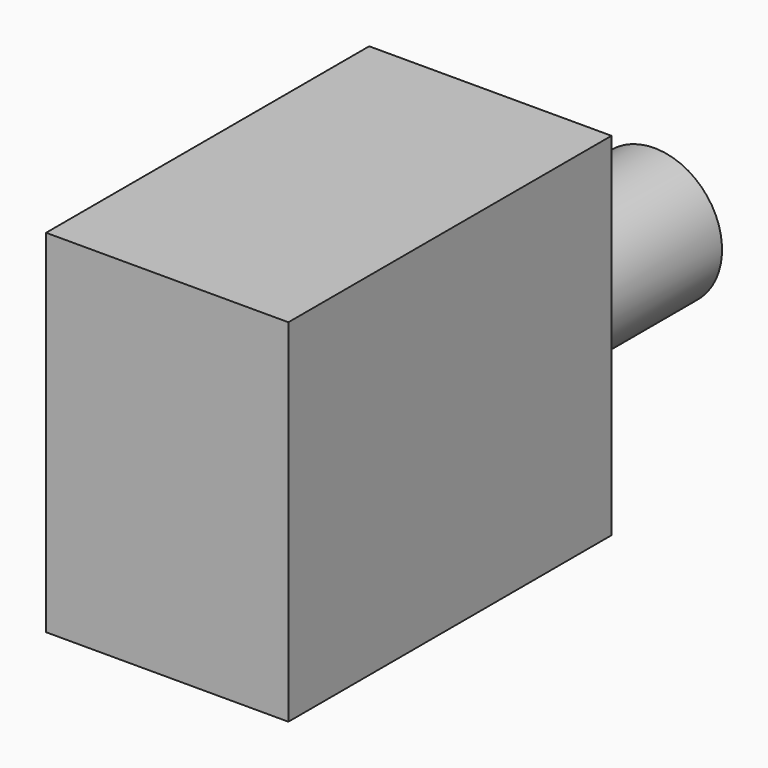
from build123d import *

# Parameters (mm, degrees)
F0_W     = 30
F0_H     = 50
F1_DEPTH = 1
F2_W     = 2
F2_H     = 2
F2_W_2   = 26
F2_H_2   = 46
F3_DEPTH = 40
F5_W     = 30
F5_H     = 50
F6_DEPTH = 2.54
F4_R     = 8.368495
F8_DEPTH = 25.4


with BuildPart() as f1:
    # F0 (on Top) → F1 (new body)
    with BuildSketch(Plane.XY):
        Rectangle(F0_W, F0_H)
    extrude(amount=F1_DEPTH)

    # F2 (on face) → F3 (join)
    with BuildSketch(Plane.XY.offset(1)):
        with Locations((-14, 24)):
            Rectangle(F2_W, F2_H)
        with Locations((0, 24)):
            Rectangle(F2_W_2, F2_H)
        with Locations((-14, 0)):
            Rectangle(F2_W, F2_H_2)
        with Locations((14, 24)):
            Rectangle(F2_W, F2_H)
        with Locations((-14, -24)):
            Rectangle(F2_W, F2_H)
        with Locations((0, -24)):
            Rectangle(F2_W_2, F2_H)
        with Locations((14, 0)):
            Rectangle(F2_W, F2_H_2)
        with Locations((14, -24)):
            Rectangle(F2_W, F2_H)
    extrude(amount=F3_DEPTH)

    # F5 (on face) → F6 (join)
    with BuildSketch(Plane.XY.offset(41)):
        Rectangle(F5_W, F5_H)
    extrude(amount=F6_DEPTH)

    # F4 (on face) → F8 (join)
    with BuildSketch(Plane(origin=(0, 25, 0), x_dir=(-1, 0, 0), z_dir=(0, 1, 0))):
        with Locations((0, 18.638214)):
            Circle(F4_R)
    extrude(amount=F8_DEPTH)


solid = f1.part
